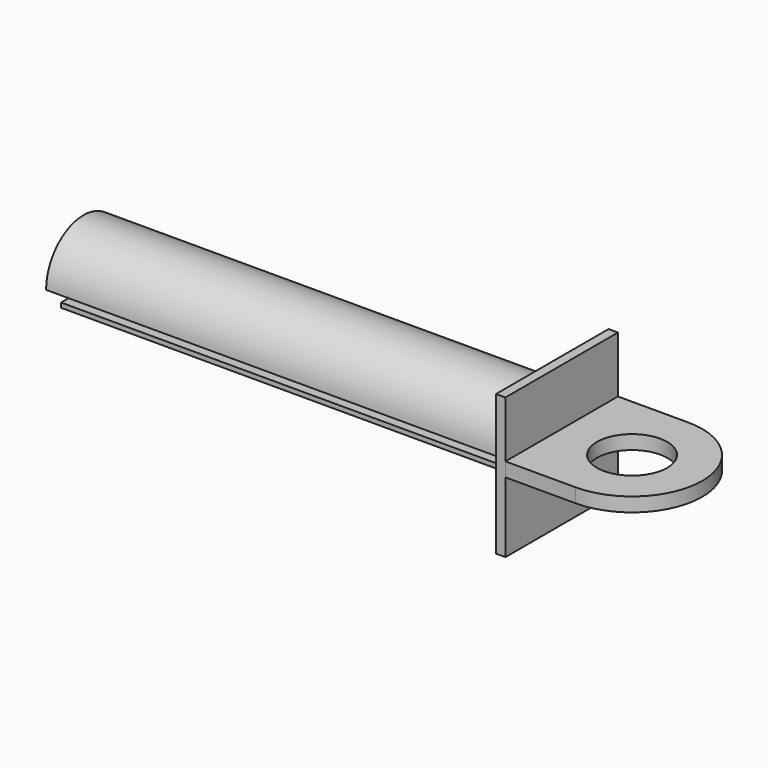
from build123d import *

# Parameters (mm, degrees)
F1_DEPTH = 100
F2_W     = 30
F2_H     = 30
F3_DEPTH = 2
F7_DEPTH = 3


with BuildPart() as f1:
    # F0 (on Right) → F1 (new body)
    with BuildSketch(Plane.YZ):
        with BuildLine():
            Line((3, 0), (10, 0))
            ThreePointArc((10, 0), (0, 9.9840104625), (-10, 0))
            Line((-10, 0), (-3, 0))
            Line((-3, 0), (-3, -4))
            Line((-3, -4), (-6, -4))
            Line((-6, -4), (-6, -5))
            Line((-6, -5), (6, -5))
            Line((6, -5), (6, -4))
            Line((6, -4), (3, -4))
            Line((3, -4), (3, 0))
        make_face()
    extrude(amount=F1_DEPTH)

    # F2 (on face) → F3 (join)
    with BuildSketch(Plane.YZ.offset(100)):
        Rectangle(F2_W, F2_H)
    extrude(amount=F3_DEPTH)


with BuildPart() as f7:
    # F6 (on plane+point) → F7 (new body)
    with BuildSketch(Plane.XY):
        with BuildLine():
            Line((117.0148004173, 14.9785418622), (102.0148004173, 14.9785418622))
            Line((102.0148004173, 14.9785418622), (102.0148004173, -15.0214581378))
            Line((102.0148004173, -15.0214581378), (117.0148004173, -15.0214581378))
            Line((117.0148004173, -15.0214581378), (117.0148004173, -7.5))
            ThreePointArc((117.0148004173, -7.5), (109.5148004173, 0), (117.0148004173, 7.5))
            Line((117.0148004173, 7.5), (117.0148004173, 14.9785418622))
        make_face()
        with BuildLine():
            ThreePointArc((117.0148004173, -15.0214581378), (132.0148004173, -0.0214581378), (117.0148004173, 14.9785418622))
            Line((117.0148004173, 14.9785418622), (117.0148004173, 7.5))
            ThreePointArc((117.0148004173, 7.5), (122.3181012762, 5.3033008589), (124.5148004173, 0))
            ThreePointArc((124.5148004173, 0), (122.3181012762, -5.3033008589), (117.0148004173, -7.5))
            Line((117.0148004173, -7.5), (117.0148004173, -15.0214581378))
        make_face()
    extrude(amount=F7_DEPTH)


solid = Compound([f1.part, f7.part])
